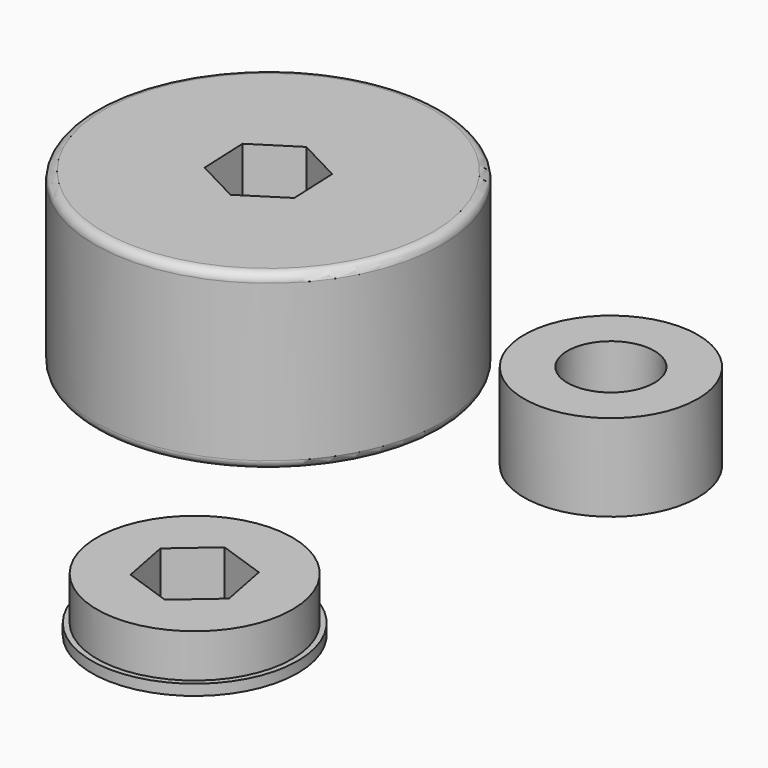
from build123d import *

# Parameters (mm, degrees)
F0_R     = 12.7
F0_R_2   = 6.35
F1_DEPTH = 12.7
F2_R     = 25.4
F3_DEPTH = 25.4
F4_R     = 1.27
F5_R     = 14.2875
F6_DEPTH = 7.9248
F5_R_2   = 15.0749
F7_DEPTH = 1.5748


with BuildPart() as f1:
    # F0 (on Top) → F1 (new body)
    with BuildSketch(Plane.XY):
        Circle(F0_R)
        Circle(F0_R_2, mode=Mode.SUBTRACT)
    extrude(amount=F1_DEPTH)


with BuildPart() as f3:
    # F2 (on Top) → F3 (new body)
    with BuildSketch(Plane.XY):
        with Locations((-45.6022, -5.631276)):
            Circle(F2_R)
        Polygon((-52.104637, -2.242818), (-45.918928, 1.694229), (-39.416491, -1.694229), (-39.099763, -9.019733), (-45.285472, -12.95678), (-51.787909, -9.568323), align=None, mode=Mode.SUBTRACT)
    extrude(amount=F3_DEPTH)

    # F4
    f4_edges = [f3.edges().sort_by_distance(p)[0] for p in [
        (-71.0022, -5.631276, 25.4),
        (-71.0022, -5.631276, 0),
    ]]
    fillet(f4_edges, radius=F4_R)


with BuildPart() as f6:
    # F5 (on Top) → F6 (new body)
    with BuildSketch(Plane.XY):
        with Locations((-10.921034, -62.455252)):
            Circle(F5_R)
        Polygon((-17.852044, -60.062671), (-12.314503, -55.256531), (-5.383494, -57.649112), (-3.990025, -64.847832), (-9.527565, -69.653972), (-16.458574, -67.261392), align=None, mode=Mode.SUBTRACT)
    extrude(amount=F6_DEPTH)

    # F5 (on Top) → F7 (join)
    with BuildSketch(Plane.XY):
        with Locations((-10.921034, -62.455252)):
            Circle(F5_R_2)
        with Locations((-10.921034, -62.455252)):
            Circle(F5_R, mode=Mode.SUBTRACT)
    extrude(amount=F7_DEPTH)


solid = Compound([f1.part, f3.part, f6.part])
